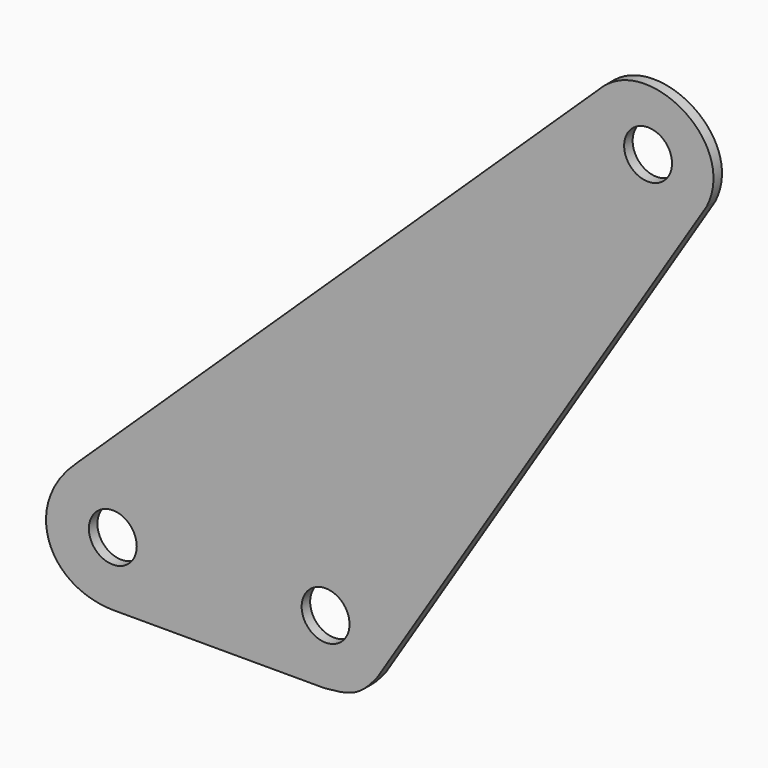
from build123d import *

# Parameters (mm, degrees)
F0_R     = 7.14375
F1_DEPTH = 3.175


with BuildPart() as f1:
    # F0 (on Front) → F1 (new body)
    with BuildSketch(Plane.XZ):
        with BuildLine():
            add(Edge.make_bspline(
                [(82.926092, 165.021802), (92.632547, 184.53142), (64.966619, 200.063169), (50.946968, 185.499491)],
                knots=[0, 0, 0, 0, 37.973677, 37.973677, 37.973677, 37.973677], degree=3))
            Line((50.946968, 185.499491), (-105.013265, 36.552987))
            add(Edge.make_bspline(
                [(-105.013265, 36.552987), (-121.657088, 21.448022), (-114.376582, 2.033332), (-94.6206, 1.375155)],
                knots=[0, 0, 0, 0, 36.680886, 36.680886, 36.680886, 36.680886], degree=3))
            Line((-94.6206, 1.375155), (-31.048113, 1.375155))
            add(Edge.make_bspline(
                [(-31.048113, 1.375155), (-22.642167, 2.033332), (-20.215331, 3.24675), (-15.296232, 9.48368)],
                knots=[0, 0, 0, 0, 17.716376, 17.716376, 17.716376, 17.716376], degree=3))
            Line((-15.296232, 9.48368), (82.926092, 165.021802))
        make_face()
        with Locations((-94.318171, 20.425155)):
            Circle(F0_R, mode=Mode.SUBTRACT)
        with Locations((-30.818171, 20.582018)):
            Circle(F0_R, mode=Mode.SUBTRACT)
        with Locations((65.422429, 172.982018)):
            Circle(F0_R, mode=Mode.SUBTRACT)
    extrude(amount=F1_DEPTH)


solid = f1.part
